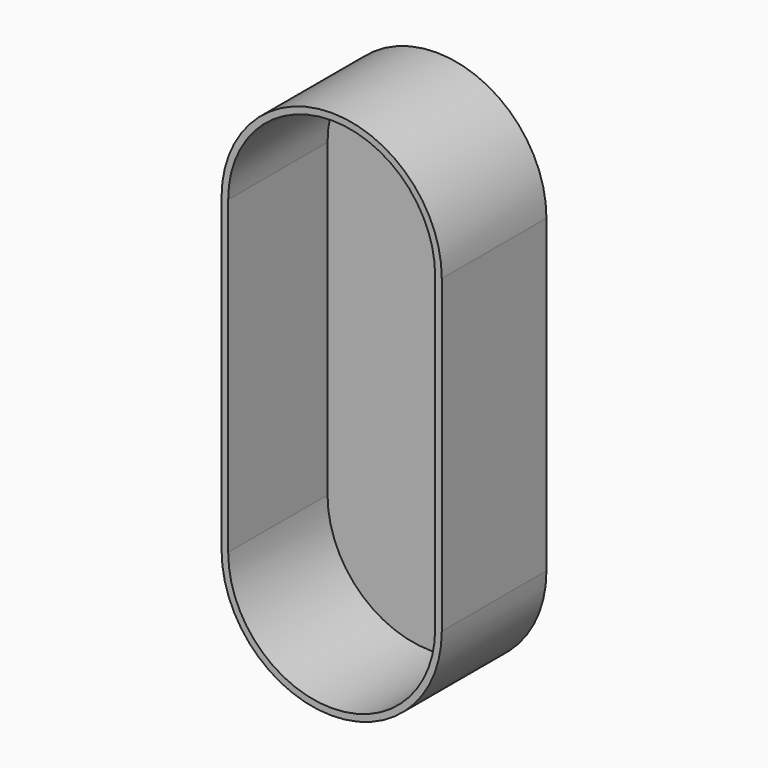
from build123d import *

# Parameters (mm, degrees)
F3_DEPTH = 30
F4_DEPTH = 1.6


with BuildPart() as f3:
    # F2 (on Front) → F3 (new body)
    with BuildSketch(Plane.XZ):
        with BuildLine():
            ThreePointArc((26.6, 75), (0, 101.6), (-26.6, 75))
            Line((-26.6, 75), (-26.6, 0))
            ThreePointArc((-26.6, 0), (0, -26.6), (26.6, 0))
            Line((26.6, 0), (26.6, 75))
        make_face()
        with BuildLine():
            Line((25, 75), (25, 0))
            ThreePointArc((25, 0), (0, -25), (-25, 0))
            Line((-25, 0), (-25, 75))
            ThreePointArc((-25, 75), (0, 100), (25, 75))
        make_face(mode=Mode.SUBTRACT)
    extrude(amount=F3_DEPTH)

    # F2 (on Front) → F4 (join)
    with BuildSketch(Plane.XZ):
        with BuildLine():
            ThreePointArc((26.6, 75), (0, 101.6), (-26.6, 75))
            Line((-26.6, 75), (-26.6, 0))
            ThreePointArc((-26.6, 0), (0, -26.6), (26.6, 0))
            Line((26.6, 0), (26.6, 75))
        make_face()
        with BuildLine():
            Line((25, 75), (25, 0))
            ThreePointArc((25, 0), (0, -25), (-25, 0))
            Line((-25, 0), (-25, 75))
            ThreePointArc((-25, 75), (0, 100), (25, 75))
        make_face(mode=Mode.SUBTRACT)
        with BuildLine():
            ThreePointArc((-25, 0), (0, -25), (25, 0))
            Line((25, 0), (25, 75))
            ThreePointArc((25, 75), (0, 100), (-25, 75))
            Line((-25, 75), (-25, 0))
        make_face()
    extrude(amount=-F4_DEPTH)


solid = f3.part
